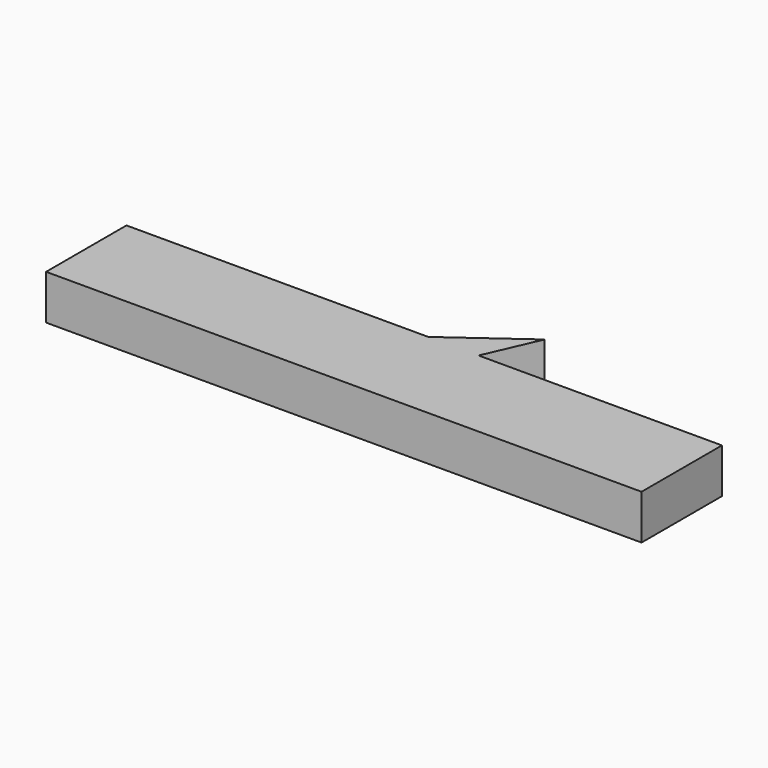
from build123d import *

# Parameters (mm, degrees)
F1_DEPTH = 25


with BuildPart() as f1:
    # F0 (on Top) → F1 (new body)
    with BuildSketch(Plane.XY):
        Polygon((-143.368647, 7.681685), (-52.16566, 7.681685), (25.298358, 63.81616), (-143.368647, 63.81616), align=None)
        Polygon((25.298358, 63.81616), (-52.16566, 7.681685), (189.367071, 7.681685), (189.367071, 63.81616), (53.402534, 63.81616), align=None)
        Polygon((66.434935, 93.625873), (25.298358, 63.81616), (53.402534, 63.81616), align=None)
    extrude(amount=F1_DEPTH)


solid = f1.part
